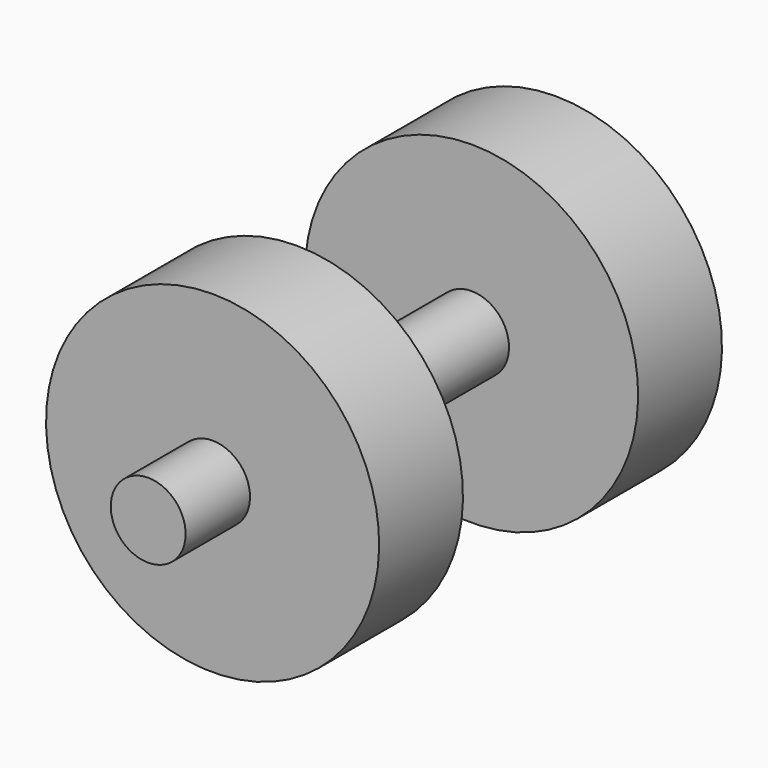
from build123d import *

# Parameters (mm, degrees)
F0_W = 11.418032
F0_H = 14.068648


with BuildPart() as f1:
    # F0 (on Right) → F1 (revolve)
    with BuildSketch(Plane.YZ):
        with Locations((-13.243333, 11.112178)):
            Rectangle(F0_W, F0_H)
        with Locations((22.03023, 11.112178)):
            Rectangle(F0_W, F0_H)
        Polygon((-18.952349, 4.077854), (-27.719766, 4.077854), (-27.719766, 0), (27.739246, 0), (27.739246, 4.077854), (16.321214, 4.077854), (-7.534317, 4.077854), align=None)
    revolve(axis=Axis((0, 1.640888, 0), (0, 1, 0)))


solid = f1.part
